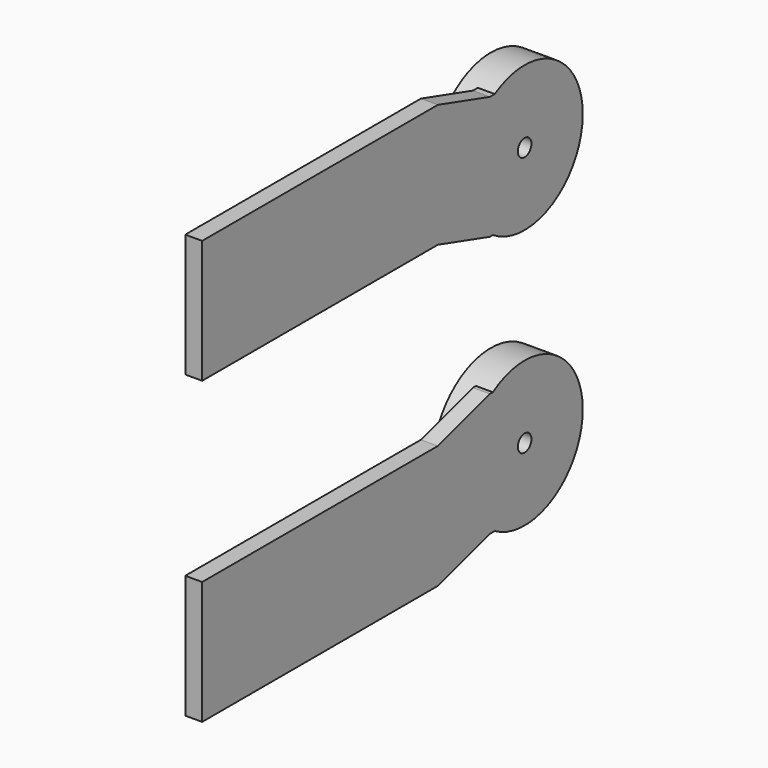
from build123d import *

# Parameters (mm, degrees)
F0_W     = 34.7978491336
F0_H     = 14.5514970645
F1_DEPTH = 2
F2_DEPTH = 2
F3_R     = 8.5838279675
F4_DEPTH = 4
F5_R     = 1.0054501638
F6_DEPTH = 4


with BuildPart() as f1:
    # F0 (on Right) → F1 (new body)
    with BuildSketch(Plane.YZ):
        with Locations((8.9581357315, 17.7379124798)):
            Rectangle(F0_W, F0_H)
    extrude(amount=-F1_DEPTH)

    # F0 (on Right) → F2 (join)
    with BuildSketch(Plane.YZ):
        with Locations((8.9581357315, 17.7379124798)):
            Rectangle(F0_W, F0_H)
        Polygon((34.0367630124, 22.722741589), (26.3570602983, 25.0136610121), (26.3570602983, 10.4621639475), (34.0367630124, 8.1712445244), (43.6027087271, 8.1712445244), (43.6027087271, 22.722741589), align=None)
    extrude(amount=-F2_DEPTH)

    # F3 (on Right) → F4 (join)
    with BuildSketch(Plane.YZ):
        with Locations((39.1718298197, 15.359907411)):
            Circle(F3_R)
    extrude(amount=-F4_DEPTH)

    # F5 (on face) → F6 (cut)
    with BuildSketch(Plane(origin=(-4, 0, 0), x_dir=(0, -1, 0), z_dir=(-1, 0, 0))):
        with Locations((-39.1718298197, 15.359907411)):
            Circle(F5_R)
    extrude(amount=-F6_DEPTH, mode=Mode.SUBTRACT)


with BuildPart() as f7_1:
    # F7: instance of F1
    add(f1.part.mirror(Plane.XY))


solid = Compound([f1.part, f7_1.part])
